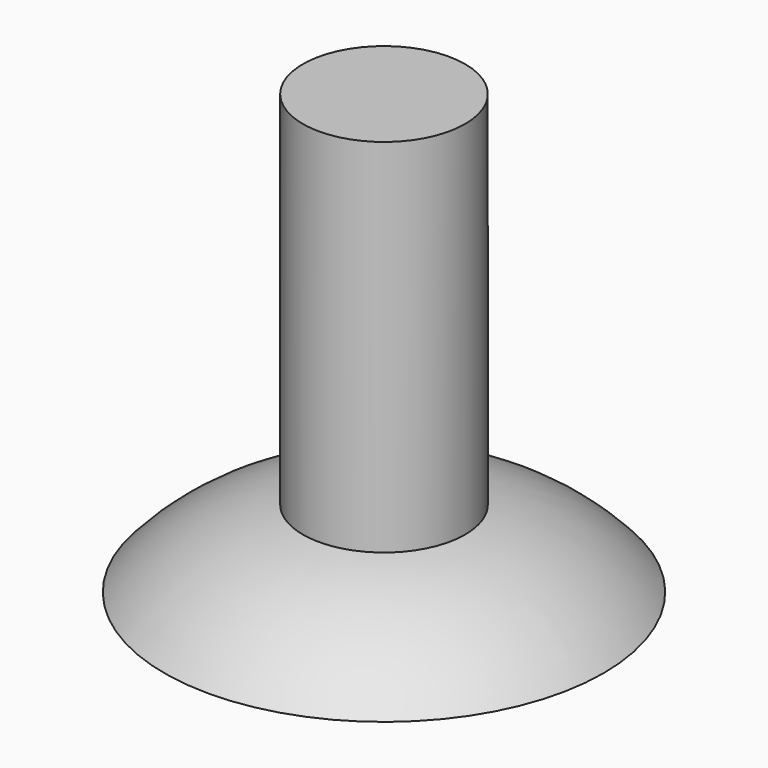
from build123d import *

# Parameters (mm, degrees)
F2_R     = 3.7
F3_DEPTH = 20


with BuildPart() as f1:
    # F0 (on Front) → F1 (revolve)
    with BuildSketch(Plane.XZ):
        with BuildLine():
            Line((0, 3.5), (0, 0))
            Line((0, 0), (10.01788, 0))
            ThreePointArc((10.01788, 0), (5.465526, 3.056865), (0, 3.5))
        make_face()
    revolve(axis=Axis((0, 0, 4.663223), (0, 0, 1)))

    # F2 (on Top) → F3 (join)
    with BuildSketch(Plane.XY):
        Circle(F2_R)
    extrude(amount=F3_DEPTH)


solid = f1.part
